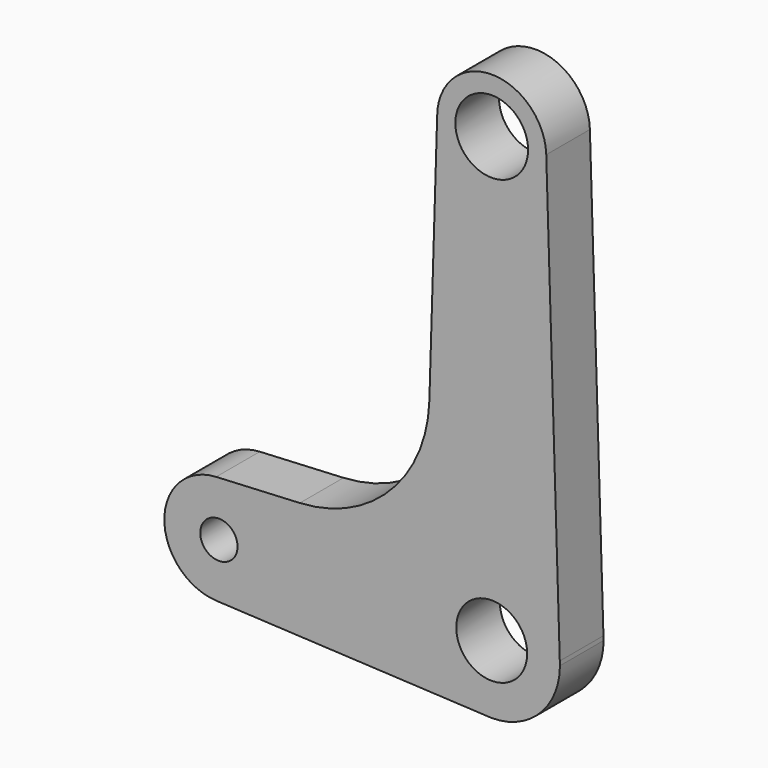
from build123d import *

# Parameters (mm, degrees)
F1_DEPTH = 6
F3_D     = 4.1
F4_D     = 8
F5_D     = 7.8
F6_R     = 15


with BuildPart() as f1:
    # F0 (on Front) → F1 (new body)
    with BuildSketch(Plane.XZ):
        with BuildLine():
            Line((7.4858944747, 0.4597650633), (5.9971782314, 48.9839925561))
            ThreePointArc((5.9971782314, 48.9839925561), (-0.0920070963, 54.7992945164), (-6, 48.8))
            Line((-6, 48.8), (-7.2834242523, 7.1447653329))
            Line((-7.2834242523, 7.1447653329), (-30.3, 5.9924953066))
            ThreePointArc((-30.3, 5.9924953066), (-35.9999999283, -0.0009276797), (-30.298146947, -5.9925877881))
            Line((-30.298146947, -5.9925877881), (-0.7444465641, -7.4629618325))
            Line((-0.7444465641, -7.4629618325), (0, -7.5))
            ThreePointArc((0, -7.5), (5.3033008589, -5.3033008589), (7.5, 0))
            Line((7.5, 0), (7.4858944747, 0.4597650633))
        make_face()
    extrude(amount=-F1_DEPTH)

    # F3 (through all)
    with Locations(Plane.XZ):
        with Locations((-30, 0)):
            Hole(F3_D / 2)

    # F4 (through all)
    with Locations(Plane.XZ):
        with Locations((0, 48.8)):
            Hole(F4_D / 2)

    # F5 (through all)
    with Locations(Plane.XZ):
        with Locations((0, 0)):
            Hole(F5_D / 2)

    # F6
    f6_edges = [f1.edges().sort_by_distance(p)[0] for p in [
        (-7.283424, 3, 7.144765),
    ]]
    fillet(f6_edges, radius=F6_R)


solid = f1.part
